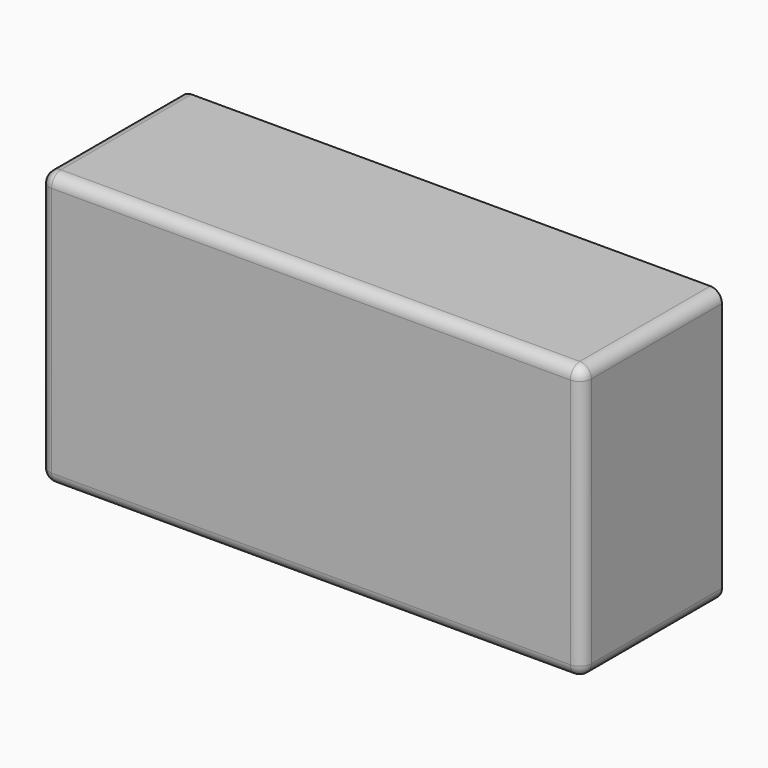
from build123d import *

# Parameters (mm, degrees)
F0_W     = 93
F0_H     = 47
F1_DEPTH = 30
F2_R     = 2


with BuildPart() as f1:
    # F0 (on Front) → F1 (new body)
    with BuildSketch(Plane.XZ):
        Rectangle(F0_W, F0_H)
    extrude(amount=F1_DEPTH)

    # F2
    f2_edges = [f1.edges().sort_by_distance(p)[0] for p in [
        (46.5, -30, 0),
        (0, -30, 23.5),
        (-46.5, -30, 0),
        (0, -30, -23.5),
        (-46.5, -15, 23.5),
        (-46.5, -15, -23.5),
        (46.5, -15, -23.5),
        (46.5, -15, 23.5),
    ]]
    fillet(f2_edges, radius=F2_R)


solid = f1.part
